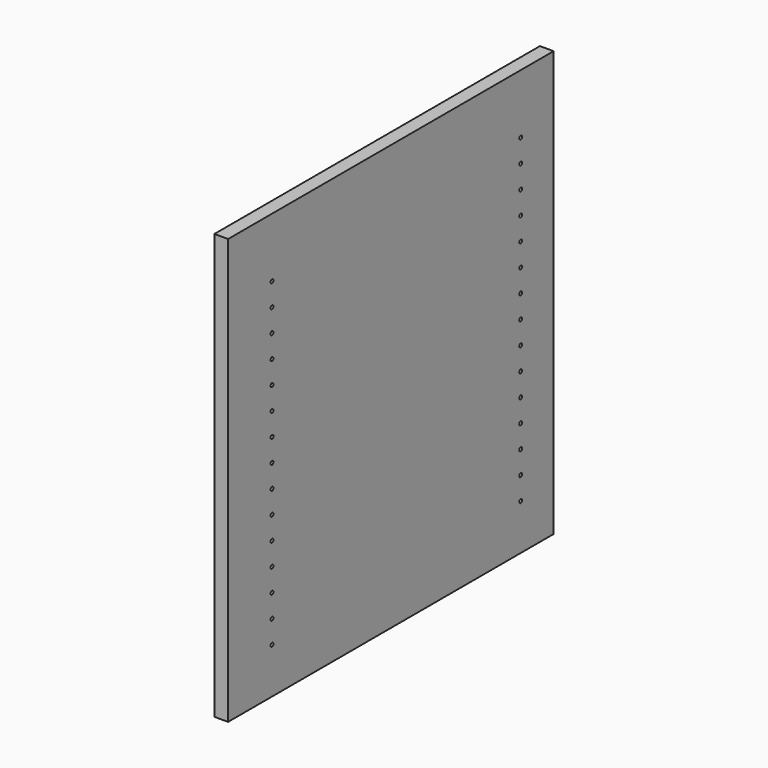
from build123d import *

# Parameters (mm, degrees)
F0_W     = 584.2
F0_H     = 590.55
F1_DEPTH = 19.05
F3_D     = 5.0038
F3_DEPTH = 1905
F3_TIP   = 1.5032931827
F4_DEPTH = 19.05


with BuildPart() as f1:
    # F0 (on Right) → F1 (new body)
    with BuildSketch(Plane.YZ):
        Rectangle(F0_W, F0_H)
    extrude(amount=F1_DEPTH)

    # F3
    with Locations(Plane.YZ.offset(19.05)):
        with Locations((-215.9, 212.725), (-215.9, 180.975), (-215.9, 149.225), (-215.9, 117.475), (-215.9, 85.725), (-215.9, 53.975), (-215.9, 22.225), (-215.9, -9.525), (-215.9, -41.275), (-215.9, -73.025), (-215.9, -104.775), (-215.9, -136.525), (-215.9, -168.275), (-215.9, -200.025), (-215.9, -231.775), (215.9, -231.775), (215.9, -200.025), (215.9, -168.275), (215.9, -136.525), (215.9, -104.775), (215.9, -73.025), (215.9, -41.275), (215.9, -9.525), (215.9, 22.225), (215.9, 53.975), (215.9, 85.725), (215.9, 117.475), (215.9, 149.225), (215.9, 180.975), (215.9, 212.725)):
            Hole(F3_D / 2, depth=F3_DEPTH)
            with Locations((0, 0, -(F3_DEPTH + F3_TIP / 2))):  # 118° drill point
                Cone(0, F3_D / 2, F3_TIP, mode=Mode.SUBTRACT)

    # F4 (cut): a face of the model
    f4_faces = [f1.faces().sort_by_distance(p)[0] for p in [
        (9.525, 292.1, 0),
    ]]
    extrude(f4_faces, amount=-F4_DEPTH, mode=Mode.SUBTRACT)


solid = f1.part
